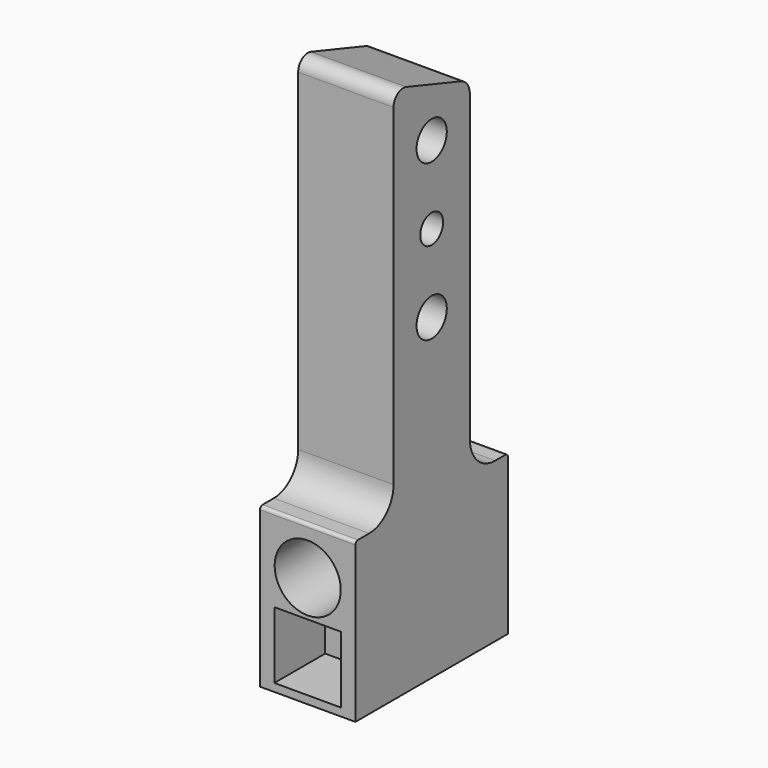
from build123d import *

# Parameters (mm, degrees)
SKETCH_R        = 5.95
SKETCH_R_2      = 4.5
PAD_DEPTH       = 30
SKETCH001_R     = 10.85
POCKET_DEPTH    = 8
SKETCH002_R     = 10.4
SKETCH002_R_2   = 5
SKETCH002_R_3   = 1.5
POCKET001_DEPTH = 60
SKETCH003_W     = 21
SKETCH003_H     = 21
POCKET002_DEPTH = 20
FILLET_R        = 1


with BuildPart() as part:
    # Sketch → Pad (new body)
    with BuildSketch(Plane.YZ):
        with BuildLine():
            Line((-15, 39.738024), (-15, -45))
            Line((-15, -45), (-15, -64.795761))
            ThreePointArc((-24.587379, -74.38314), (-17.808078, -71.575062), (-15, -64.795761))
            Line((-24.587379, -74.38314), (-30, -74.38314))
            Line((-30, -74.38314), (-30, -124.38314))
            Line((-30, -124.38314), (30, -124.38314))
            Line((30, -124.38314), (30, -74.38314))
            Line((30, -74.38314), (25.005197, -74.38314))
            ThreePointArc((15, -64.377943), (17.930454, -71.452686), (25.005197, -74.38314))
            Line((15, -45), (15, -64.377943))
            Line((15, 31.297371), (15, -45))
            ThreePointArc((15, 31.297371), (14.030328, 34.3011), (11.487377, 36.170874))
            Line((11.487377, 36.170874), (-10.008051, 43.336017))
            ThreePointArc((-10.008051, 43.336017), (-13.424965, 42.814755), (-15, 39.738024))
        make_face()
        with Locations((0, 24.5)):
            Circle(SKETCH_R, mode=Mode.SUBTRACT)
        with Locations((0, -24.5)):
            Circle(SKETCH_R, mode=Mode.SUBTRACT)
        Circle(SKETCH_R_2, mode=Mode.SUBTRACT)
    extrude(amount=PAD_DEPTH)

    # Sketch001 (on Face18 of Pad) → Pocket (cut)
    with BuildSketch(Plane(origin=(0, 0, 0), x_dir=(0, 1, 0), z_dir=(-1, 0, 0))):
        Circle(SKETCH001_R)
    extrude(amount=-POCKET_DEPTH, mode=Mode.SUBTRACT)

    # Sketch002 (on Face16 of Pocket) → Pocket001 (cut)
    with BuildSketch(Plane(origin=(0, -30, 0), x_dir=(0, 0, -1), z_dir=(0, -1, 0))):
        with Locations((89.38314, 15)):
            Circle(SKETCH002_R)
        with Locations((111.38314, 15)):
            Circle(SKETCH002_R_2)
        with Locations((111.38314, 22.5)):
            Circle(SKETCH002_R_3)
        with Locations((103.88314, 15)):
            Circle(SKETCH002_R_3)
        with Locations((111.38314, 7.5)):
            Circle(SKETCH002_R_3)
        with Locations((118.88314, 15)):
            Circle(SKETCH002_R_3)
    extrude(amount=-POCKET001_DEPTH, mode=Mode.SUBTRACT)

    # Sketch003 (on Face16 of Pocket001) → Pocket002 (cut)
    with BuildSketch(Plane(origin=(0, -30, 0), x_dir=(0, 0, -1), z_dir=(0, -1, 0))):
        with Locations((111.38314, 15)):
            Rectangle(SKETCH003_W, SKETCH003_H)
    extrude(amount=-POCKET002_DEPTH, mode=Mode.SUBTRACT)

    # Fillet
    fillet_edges = [part.edges().sort_by_distance(p)[0] for p in [
        (15, -30, -74.38314),
        (15, 30, -74.38314),
    ]]
    fillet(fillet_edges, radius=FILLET_R)


solid = part.part
